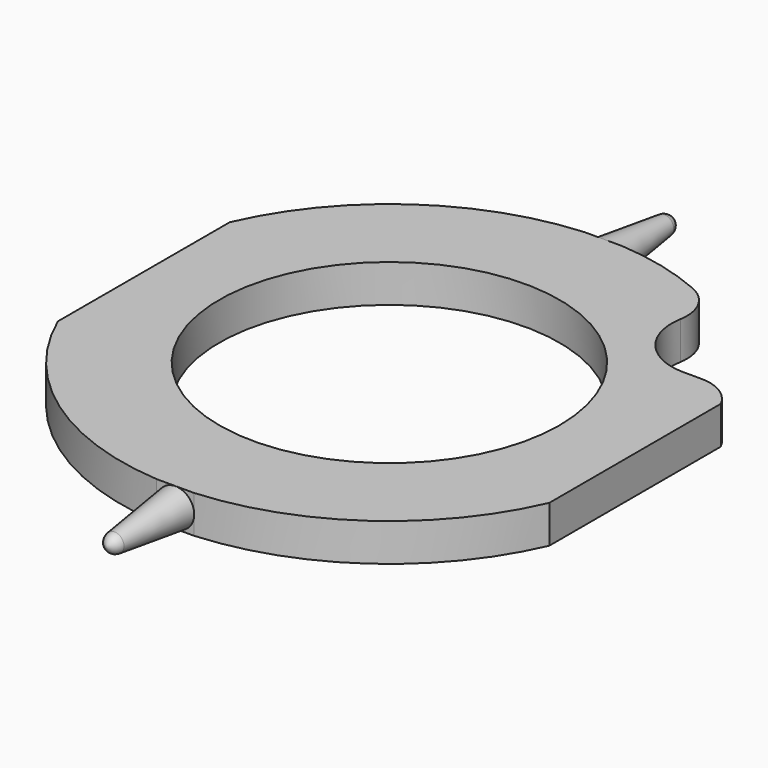
from build123d import *

# Parameters (mm, degrees)
PAD_DEPTH       = 0.88
PAD_DEPTH_BACK  = 0.88
FILLET_R        = 2
SKETCH002_R     = 7.93
POCKET_DEPTH    = 5
POCKET001_DEPTH = 5


with BuildPart() as part:
    # Sketch → Pad (new body, two sides)
    with BuildSketch(Plane.XY) as pad_sk:
        with BuildLine():
            ThreePointArc((-0.875, 12.469337), (-12.5, 0), (-0.875, -12.469337))
            Line((-0.875, -12.469337), (-0.875, -16.469337))
            Line((-0.875, -16.469337), (0.875, -16.469337))
            Line((0.875, -12.469337), (0.875, -16.469337))
            ThreePointArc((0.875, -12.469337), (10.995688, -5.945153), (10.912848, 6.095879))
            Line((8.838835, 6.095879), (10.912848, 6.095879))
            ThreePointArc((6.698177, 10.553882), (6.366174, 7.651504), (8.838835, 6.095879))
            ThreePointArc((6.698177, 10.553882), (3.905828, 11.874111), (0.875, 12.469337))
            Line((0.875, 12.469337), (0.875, 16.469337))
            Line((-0.875, 16.469337), (0.875, 16.469337))
            Line((-0.875, 12.469337), (-0.875, 16.469337))
        make_face()
    extrude(amount=PAD_DEPTH)
    extrude(pad_sk.sketch, amount=-PAD_DEPTH_BACK)

    # Fillet
    fillet_edges = [part.edges().sort_by_distance(p)[0] for p in [
        (6.698177, 10.553882, 0),
        (10.912848, 6.095879, 0),
    ]]
    fillet(fillet_edges, radius=FILLET_R)

    # Sketch001 → Groove (revolve, cut)
    with BuildSketch(Plane.XY):
        with BuildLine():
            Line((-0.875, 12.469337), (-1.427669, 12.469337))
            Line((-1.427669, 12.469337), (-1.427669, 16.923711))
            Line((-1.427669, 16.923711), (0, 16.923711))
            Line((0, 16.923711), (0, 16.469337))
            ThreePointArc((0, 16.469337), (-0.296631, 16.319125), (-0.4408, 16.01951))
            Line((-0.875, 12.469337), (-0.4408, 16.01951))
        make_face()
    groove = revolve(axis=Axis((0, 0, 0), (0, 1, 0)), mode=Mode.SUBTRACT)

    # Mirrored: Groove across XZ
    add(groove.mirror(Plane.XZ), mode=Mode.SUBTRACT)

    # Sketch002 (on Face6 of Mirrored) → Pocket (cut)
    with BuildSketch(Plane.XY.offset(0.88)):
        Circle(SKETCH002_R)
    extrude(amount=-POCKET_DEPTH, mode=Mode.SUBTRACT)

    # Sketch003 (on Face6 of Pocket) → Pocket001 (cut)
    with BuildSketch(Plane.XY.offset(0.88)):
        Polygon((12.882158, 5), (12.882158, -5), (11.456439, -5), (11.452158, 5), align=None)
    pocket001 = extrude(amount=-POCKET001_DEPTH, mode=Mode.SUBTRACT)

    # Mirrored001: Pocket001 across Sketch003 V_Axis
    add(pocket001.mirror(Plane(origin=(0, 0, 0.88), x_dir=(0, 0, 1), z_dir=(1, 0, 0))), mode=Mode.SUBTRACT)


solid = part.part
